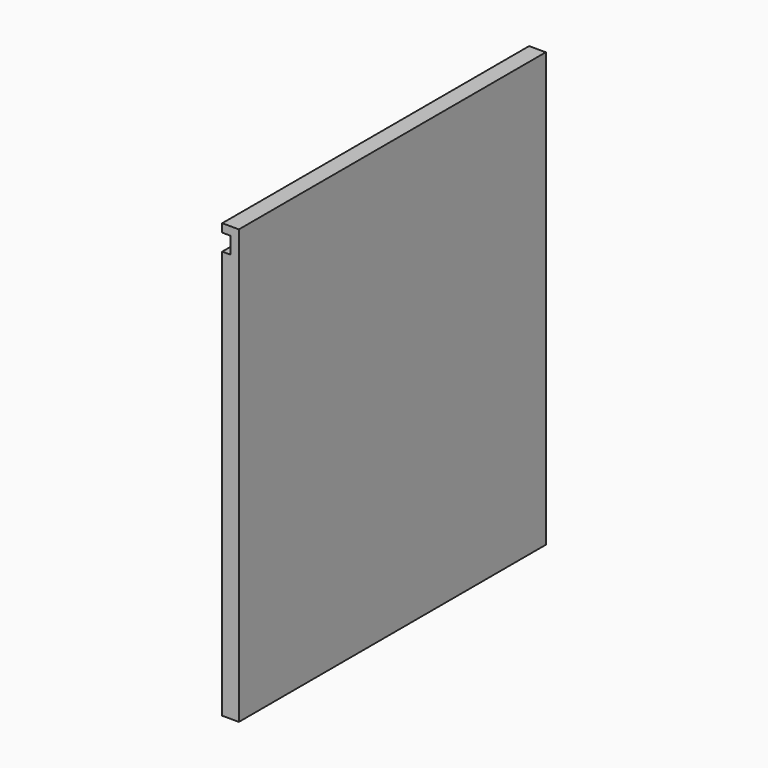
from build123d import *

# Parameters (mm, degrees)
F0_W     = 292.1
F0_H     = 304.8
F1_DEPTH = 12.7
F2_W     = 292.1
F2_H     = 25.4
F3_DEPTH = 12.7
F4_W     = 292.1
F4_H     = 12.7
F5_DEPTH = 6.35


with BuildPart() as f1:
    # F0 (on Right) → F1 (new body)
    with BuildSketch(Plane.YZ):
        with Locations((-146.05, 152.4)):
            Rectangle(F0_W, F0_H)
    extrude(amount=F1_DEPTH)

    # F2 (on Right) → F3 (join)
    with BuildSketch(Plane.YZ):
        with Locations((-146.05, -12.7)):
            Rectangle(F2_W, F2_H)
    extrude(amount=F3_DEPTH)

    # F4 (on face) → F5 (cut)
    with BuildSketch(Plane(origin=(0, 0, 0), x_dir=(0, -1, 0), z_dir=(-1, 0, 0))):
        with Locations((146.05, 292.1)):
            Rectangle(F4_W, F4_H)
    extrude(amount=-F5_DEPTH, mode=Mode.SUBTRACT)


solid = f1.part
